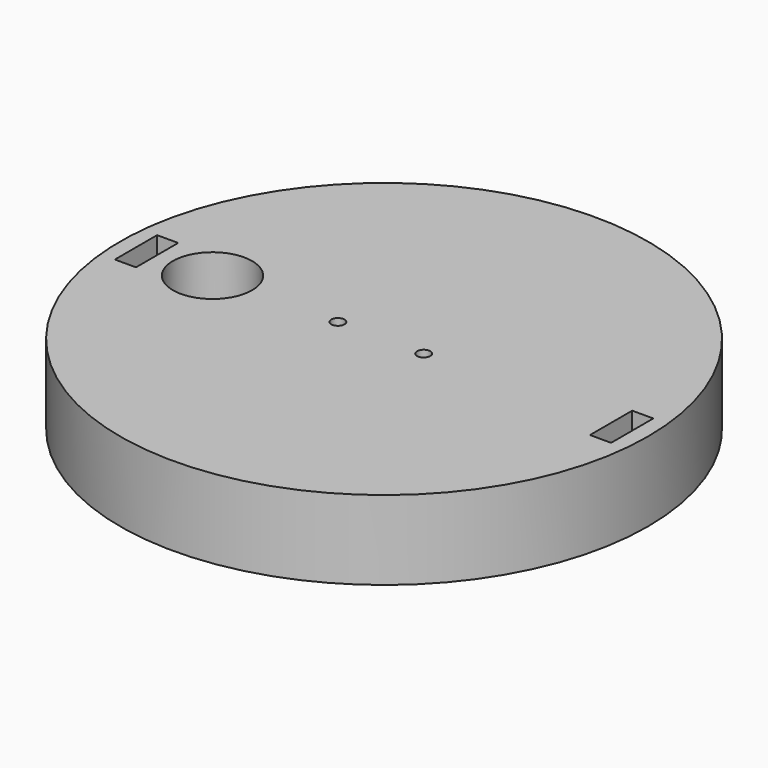
from build123d import *

# Parameters (mm, degrees)
F0_R     = 10
F0_W     = 0.8
F0_H     = 2
F0_R_2   = 1.5
F0_R_3   = 0.25
F1_DEPTH = 3
F2_DEPTH = 1.5


with BuildPart() as f1:
    # F0 (on Top) → F1 (new body)
    with BuildSketch(Plane.XY):
        Circle(F0_R)
        with Locations((-9, 0)):
            Rectangle(F0_W, F0_H, mode=Mode.SUBTRACT)
        with Locations((-6.5, 0)):
            Circle(F0_R_2, mode=Mode.SUBTRACT)
        with Locations((-1.75, 0)):
            Circle(F0_R_3, mode=Mode.SUBTRACT)
        with Locations((1.5, 0)):
            Circle(F0_R_3, mode=Mode.SUBTRACT)
        with Locations((9, 0)):
            Rectangle(F0_W, F0_H, mode=Mode.SUBTRACT)
    extrude(amount=F1_DEPTH)

    # F0 (on Top) → F2 (join)
    with BuildSketch(Plane.XY):
        with Locations((-9, 0)):
            Rectangle(F0_W, F0_H)
        with Locations((9, 0)):
            Rectangle(F0_W, F0_H)
    extrude(amount=F2_DEPTH)


solid = f1.part
